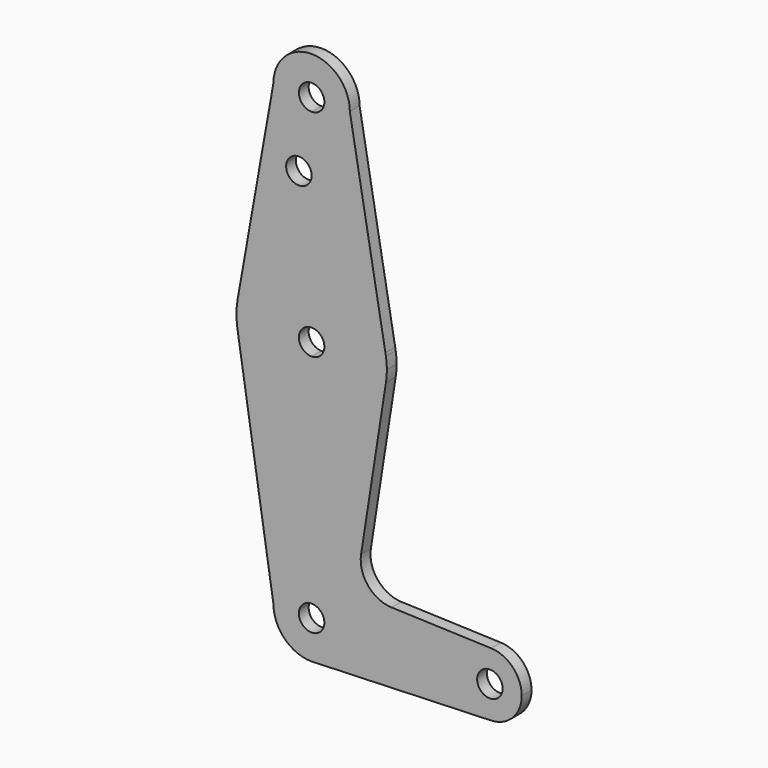
from build123d import *

# Parameters (mm, degrees)
F0_R     = 3.175
F1_DEPTH = 3.048


with BuildPart() as f1:
    # F0 (on Front) → F1 (new body)
    with BuildSketch(Plane.XZ):
        with BuildLine():
            ThreePointArc((18.5272162363, -2.8907946242), (12.1944256202, -14.2446628188), (0, -18.7513848829))
            Line((0, -18.7513848829), (0, -51.0613519013))
            ThreePointArc((0, -51.0613519013), (6.7351920908, -53.8511598105), (9.525, -60.5863519013))
            Line((9.525, -60.5863519013), (36.5125, -60.5863519013))
            ThreePointArc((36.5125, -60.5863519013), (38.9380895153, -54.8747191174), (44.7324052746, -52.6538772867))
            Line((44.7324052746, -52.6538772867), (19.9038367454, -51.7699515192))
            ThreePointArc((19.9038367454, -51.7699515192), (14.056218392, -48.8866966862), (12.3315367458, -42.5991477155))
            Line((12.3315367458, -42.5991477155), (18.5272162363, -2.8907946242))
        make_face()
        with BuildLine():
            Line((36.5125, -60.5863519013), (9.525, -60.5863519013))
            ThreePointArc((9.525, -60.5863519013), (6.9705567315, -67.0776509895), (0.6773435479, -70.0872376873))
            Line((0.6773435479, -70.0872376873), (44.7324052746, -68.5188265159))
            ThreePointArc((44.7324052746, -68.5188265159), (38.9380895153, -66.2979846852), (36.5125, -60.5863519013))
        make_face()
        with BuildLine():
            Line((0, 18.7513848829), (0, 3.175))
            ThreePointArc((0, 3.175), (2.2450640303, 2.2450640303), (3.175, 0))
            ThreePointArc((3.175, 0), (2.2450640303, -2.2450640303), (0, -3.175))
            Line((0, -3.175), (0, -18.7513848829))
            ThreePointArc((0, -18.7513848829), (12.1944256202, -14.2446628188), (18.5272162363, -2.8907946242))
            ThreePointArc((18.5272162363, -2.8907946242), (18.6952587236, -1.4497366262), (18.7513848829, 0))
            ThreePointArc((18.7513848829, 0), (18.6943609499, 1.4612678406), (18.5236359763, 2.9136480987))
            Line((18.5236359763, 2.9136480987), (18.3973654955, 3.6264828487))
            ThreePointArc((18.3973654955, 3.6264828487), (11.9082504878, 14.4847507865), (0, 18.7513848829))
        make_face()
        with BuildLine():
            ThreePointArc((0, -3.175), (-3.175, 0), (0, 3.175))
            Line((0, 3.175), (0, 18.7513848829))
            ThreePointArc((0, 18.7513848829), (-12.0470149388, 14.3695464817), (-18.4637179825, 3.2719341818))
            ThreePointArc((-18.4637179825, 3.2719341818), (-18.7503896007, 0.1931963966), (-18.5272162363, -2.8907946242))
            ThreePointArc((-18.5272162363, -2.8907946242), (-12.1944256202, -14.2446628188), (0, -18.7513848829))
            Line((0, -18.7513848829), (0, -3.175))
        make_face()
        with BuildLine():
            Line((0, -57.4113519013), (0, -51.0613519013))
            ThreePointArc((0, -51.0613519013), (-6.7351920908, -53.8511598105), (-9.525, -60.5863519013))
            ThreePointArc((-9.525, -60.5863519013), (-6.7351920908, -67.3215439921), (0, -70.1113519013))
            Line((0, -70.1113519013), (0.6773435479, -70.0872376873))
            ThreePointArc((0.6773435479, -70.0872376873), (6.9705567315, -67.0776509895), (9.525, -60.5863519013))
            Line((9.525, -60.5863519013), (3.175, -60.5863519013))
            ThreePointArc((3.175, -60.5863519013), (-2.2450640303, -62.8314159316), (0, -57.4113519013))
        make_face()
        with BuildLine():
            ThreePointArc((9.525, -60.5863519013), (6.7351920908, -53.8511598105), (0, -51.0613519013))
            Line((0, -51.0613519013), (0, -57.4113519013))
            ThreePointArc((0, -57.4113519013), (2.2450640303, -58.341287871), (3.175, -60.5863519013))
            Line((3.175, -60.5863519013), (9.525, -60.5863519013))
        make_face()
        with BuildLine():
            ThreePointArc((-18.4637179825, 3.2719341818), (-12.0470149388, 14.3695464817), (0, 18.7513848829))
            Line((0, 18.7513848829), (0, 36.5252))
            Line((0, 36.5252), (0, 44.1886480987))
            ThreePointArc((0, 44.1886480987), (-6.7351920908, 46.9784560079), (-9.525, 53.7136480987))
            Line((-9.525, 53.7136480987), (-18.4637179825, 3.2719341818))
        make_face()
        with Locations((-3.175, 36.5252)):
            Circle(F0_R, mode=Mode.SUBTRACT)
        with BuildLine():
            Line((0, 36.5252), (0, 18.7513848829))
            ThreePointArc((0, 18.7513848829), (11.9082504878, 14.4847507865), (18.3973654955, 3.6264828487))
            Line((18.3973654955, 3.6264828487), (9.525, 53.7136480987))
            ThreePointArc((9.525, 53.7136480987), (6.7351920908, 46.9784560079), (0, 44.1886480987))
            Line((0, 44.1886480987), (0, 36.5252))
        make_face()
        with BuildLine():
            Line((0, -51.0613519013), (0, -18.7513848829))
            ThreePointArc((0, -18.7513848829), (-12.1944256202, -14.2446628188), (-18.5272162363, -2.8907946242))
            Line((-18.5272162363, -2.8907946242), (-9.525, -60.5863519013))
            ThreePointArc((-9.525, -60.5863519013), (-6.7351920908, -53.8511598105), (0, -51.0613519013))
        make_face()
        with BuildLine():
            ThreePointArc((44.7324052746, -52.6538772867), (38.9380895153, -54.8747191174), (36.5125, -60.5863519013))
            ThreePointArc((36.5125, -60.5863519013), (38.9380895153, -66.2979846852), (44.7324052746, -68.5188265159))
            ThreePointArc((44.7324052746, -68.5188265159), (50.1616327839, -66.098262386), (52.3875, -60.5863519013))
            ThreePointArc((52.3875, -60.5863519013), (50.1616327839, -55.0744414166), (44.7324052746, -52.6538772867))
        make_face()
        with BuildLine():
            ThreePointArc((47.625, -60.5863519013), (44.45, -63.7613519013), (41.275, -60.5863519013))
            ThreePointArc((41.275, -60.5863519013), (44.45, -57.4113519013), (47.625, -60.5863519013))
        make_face(mode=Mode.SUBTRACT)
        with BuildLine():
            ThreePointArc((-9.525, 53.7136480987), (-6.7351920908, 46.9784560079), (0, 44.1886480987))
            ThreePointArc((0, 44.1886480987), (6.7351920908, 46.9784560079), (9.525, 53.7136480987))
            ThreePointArc((9.525, 53.7136480987), (0, 63.2386480987), (-9.525, 53.7136480987))
        make_face()
        with BuildLine():
            ThreePointArc((3.175, 53.7136480987), (2.2450640303, 51.4685840684), (0, 50.5386480987))
            ThreePointArc((0, 50.5386480987), (-2.2450640303, 55.958712129), (3.175, 53.7136480987))
        make_face(mode=Mode.SUBTRACT)
    extrude(amount=F1_DEPTH)


solid = f1.part
